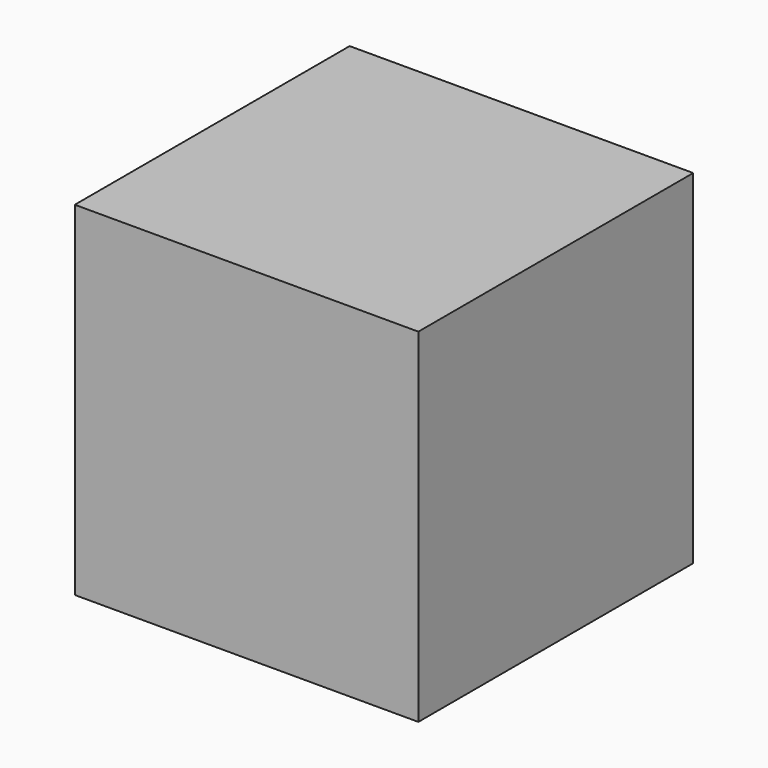
from build123d import *

# Parameters (mm, degrees)
SKETCH_W  = 1000
SKETCH_H  = 1000
PAD_DEPTH = 500


with BuildPart() as part:
    # Sketch → Pad (new body, symmetric)
    with BuildSketch(Plane.XY):
        Rectangle(SKETCH_W, SKETCH_H)
    extrude(amount=PAD_DEPTH, both=True)


solid = part.part
